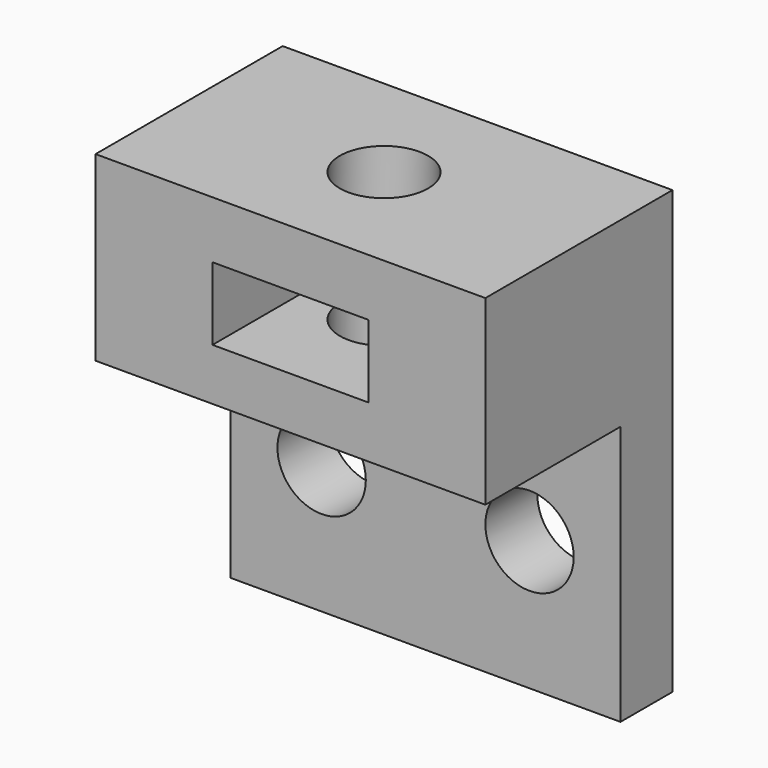
from build123d import *

# Parameters (mm, degrees)
SKETCH050_W       = 15
SKETCH050_H       = 9
SKETCH050_R       = 1.7
PAD025_DEPTH      = 17
BOX002_W          = 6
BOX002_H          = 10
BOX002_DEPTH      = 2.8
BOX003_W          = 17
BOX003_H          = 10
BOX003_DEPTH      = 12
CYLINDER002_R     = 1.7
CYLINDER002_DEPTH = 10
CYLINDER003_R     = 1.7
CYLINDER003_DEPTH = 10


with BuildPart() as part:
    # Sketch050 → Pad025 (new body)
    with BuildSketch(Plane.XY):
        Rectangle(SKETCH050_W, SKETCH050_H)
        Circle(SKETCH050_R, mode=Mode.SUBTRACT)
    extrude(amount=PAD025_DEPTH)

    # Box002 → Box002 (cut)
    with BuildSketch(Plane(origin=(-3, -6.5, 12), x_dir=(1, 0, 0), z_dir=(0, 0, 1))):
        with Locations((3, 5)):
            Rectangle(BOX002_W, BOX002_H)
    extrude(amount=BOX002_DEPTH, mode=Mode.SUBTRACT)

    # Box003 → Box003 (cut)
    with BuildSketch(Plane(origin=(-8, -8, -2), x_dir=(1, 0, 0), z_dir=(0, 0, 1))):
        with Locations((8.5, 5)):
            Rectangle(BOX003_W, BOX003_H)
    extrude(amount=BOX003_DEPTH, mode=Mode.SUBTRACT)

    # Cylinder002 → Cylinder002 (cut)
    with BuildSketch(Plane(origin=(-4, 7, 5), x_dir=(1, 0, 0), z_dir=(0, -1, 0))):
        Circle(CYLINDER002_R)
    extrude(amount=CYLINDER002_DEPTH, mode=Mode.SUBTRACT)

    # Cylinder003 → Cylinder003 (cut)
    with BuildSketch(Plane(origin=(4, 7, 5), x_dir=(1, 0, 0), z_dir=(0, -1, 0))):
        Circle(CYLINDER003_R)
    extrude(amount=CYLINDER003_DEPTH, mode=Mode.SUBTRACT)


solid = part.part
